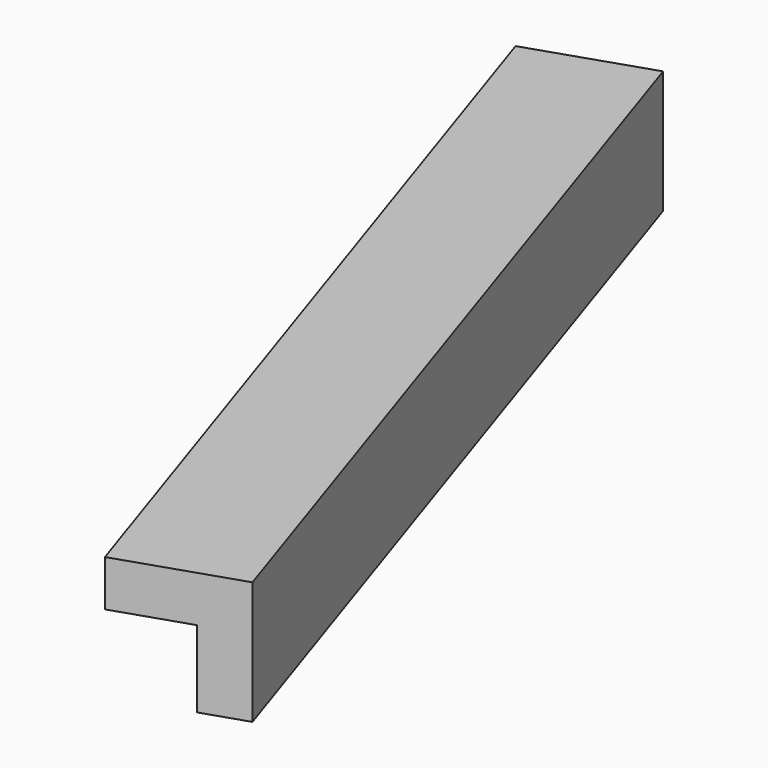
from build123d import *

# Parameters (mm, degrees)
BOX151_W               = 0.8
BOX151_H               = 6
BOX151_DEPTH           = 0.8
BOX152_W               = 0.8
BOX152_H               = 6
BOX152_DEPTH           = 0.8
CUT079_PLACEMENT_ANGLE = 18.3


with BuildPart() as cubo151:
    # Box151 → Box151 (new body)
    with BuildSketch(Plane.XY):
        with Locations((0.4, 3)):
            Rectangle(BOX151_W, BOX151_H)
    extrude(amount=BOX151_DEPTH)


with BuildPart() as obj1:
    # Box152 → Box152 (new body)
    with BuildSketch(Plane(origin=(0.3, 0, 0.3), x_dir=(1, 0, 0), z_dir=(0, 0, 1))):
        with Locations((0.4, 3)):
            Rectangle(BOX152_W, BOX152_H)
    extrude(amount=BOX152_DEPTH)

    # Cut079: cut Cubo151
    add(cubo151.part, mode=Mode.SUBTRACT)


with BuildPart() as obj1_1:
    # Cut079 placement: moved
    add(obj1.part.moved(Location((-75, 215.6, -1.45))).rotate(Axis((-75, 215.6, -1.45), (0, 0, 1)), CUT079_PLACEMENT_ANGLE))


solid = obj1_1.part
